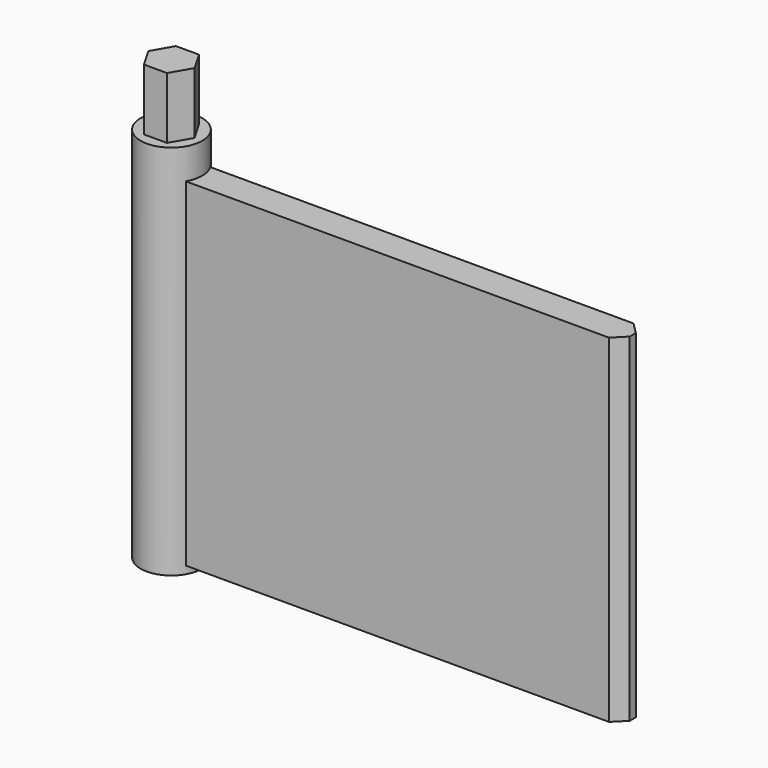
from build123d import *

# Parameters (mm, degrees)
SKETCH017_W               = 60
SKETCH017_H               = 44
EXTRUDE021_DEPTH          = 2
CHAMFER001_SIZE           = 1.5
EXTRUDE024_DEPTH          = 8
SKETCH016_R               = 4
EXTRUDE020_DEPTH          = 49
FUSION008_PLACEMENT_ANGLE = 180


with BuildPart() as chamfer001:
    # Sketch017 (on Extrude) → Extrude021 (new body, symmetric)
    with BuildSketch(Plane.XZ):
        with Locations((-30, 26)):
            Rectangle(SKETCH017_W, SKETCH017_H)
    extrude(amount=EXTRUDE021_DEPTH, both=True)

    # Chamfer001
    chamfer001_edges = [chamfer001.edges().sort_by_distance(p)[0] for p in [
        (-60, 2, 26),
        (-60, -2, 26),
    ]]
    chamfer(chamfer001_edges, length=CHAMFER001_SIZE)


with BuildPart() as extrude024:
    # Sketch019 → Extrude024 (new body)
    with BuildSketch(Plane.XY):
        Polygon((-1.5, 2.598076), (1.5, 2.598076), (3, 0), (1.5, -2.598076), (-1.5, -2.598076), (-3, 0), align=None)
    extrude(amount=-EXTRUDE024_DEPTH)


with BuildPart() as reject_flap:
    # Sketch016 → Extrude020 (new body)
    with BuildSketch(Plane.XY):
        Circle(SKETCH016_R)
    extrude(amount=EXTRUDE020_DEPTH)

    # Fusion008: union Chamfer001, Extrude024
    add(chamfer001.part)
    add(extrude024.part)


with BuildPart() as reject_flap_1:
    # Fusion008 placement: moved
    add(reject_flap.part.rotate(Axis((0, 0, 0), (0, 1, 0)), FUSION008_PLACEMENT_ANGLE))


solid = reject_flap_1.part
